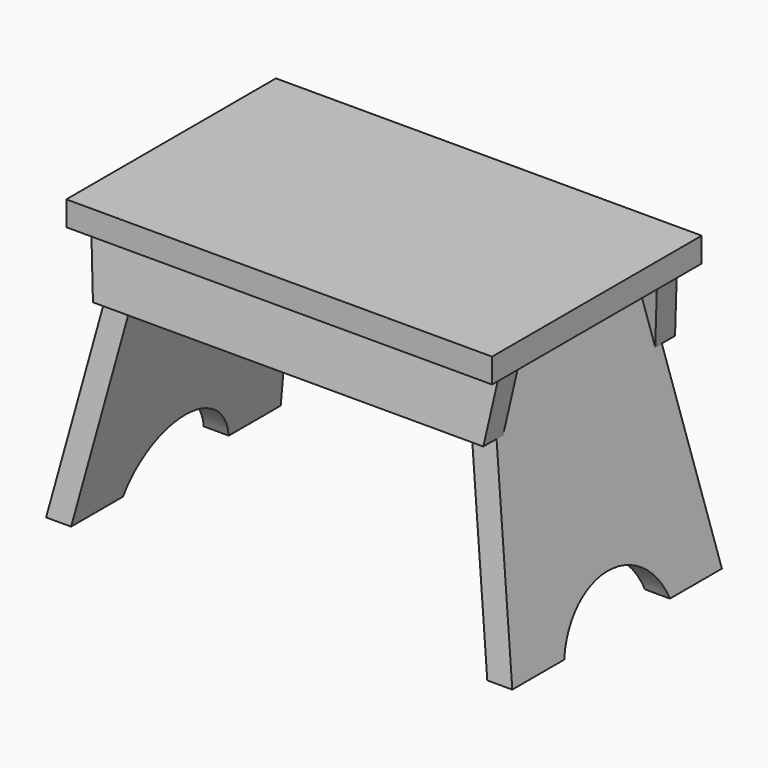
from build123d import *

# Parameters (mm, degrees)
F1_DEPTH      = 101.6
F2_DEPTH      = 101.6
F2_DEPTH_BACK = 101.6
F4_DEPTH      = 180.7780199658
F4_DEPTH_BACK = 180.7780199658
F6_DEPTH      = 165.1
F6_DEPTH_BACK = 165.1
F7_DEPTH      = 101.601
F7_DEPTH_BACK = 101.601


with BuildPart() as f1:
    # F0 (on Front) → F1 (new body, symmetric)
    with BuildSketch(Plane.XZ):
        Polygon((165.1, 9.525), (-165.1, 9.525), (-165.1, -9.525), (-158.4321111441, -9.525), (-141.6839671327, -9.525), (-122.2846235293, -9.525), (122.2846235293, -9.525), (141.6839671327, -9.525), (158.4321111441, -9.525), (165.1, -9.525), align=None)
    extrude(amount=F1_DEPTH, both=True)


with BuildPart() as f2:
    # F0 (on Front) → F2 (new body, two sides)
    with BuildSketch(Plane.XZ) as f2_sk:
        Polygon((-131.9627740119, -59.8306178921), (-151.3621176153, -59.8306178921), (-180.7770199658, -212.725), (-161.3776763624, -212.725), align=None)
        Polygon((-122.2846235293, -9.525), (-141.6839671327, -9.525), (-151.3621176153, -59.8306178921), (-131.9627740119, -59.8306178921), align=None)
        Polygon((-122.2846235293, -9.525), (-141.6839671327, -9.525), (-151.3621176153, -59.8306178921), (-131.9627740119, -59.8306178921), align=None)
    extrude(amount=F2_DEPTH)
    extrude(f2_sk.sketch, amount=-F2_DEPTH_BACK)


with BuildPart() as f2b:
    # F0 (on Front) → F2, piece 2 (new body, two sides)
    with BuildSketch(Plane.XZ) as f2_2_sk:
        Polygon((180.7770199658, -212.725), (151.3621176153, -59.8306178921), (131.9627740119, -59.8306178921), (161.3776763624, -212.725), align=None)
        Polygon((151.3621176153, -59.8306178921), (141.6839671327, -9.525), (122.2846235293, -9.525), (131.9627740119, -59.8306178921), align=None)
    extrude(amount=F2_DEPTH)
    extrude(f2_2_sk.sketch, amount=-F2_DEPTH_BACK)


with BuildPart() as f4_tool:
    # F3 (on Right) → F4 (new body, two sides)
    with BuildSketch(Plane.YZ) as f4_sk:
        Polygon((-101.6, -212.725), (-73.0421023885, -9.525), (-101.6000000004, -9.525), align=None)
        with BuildLine():
            Line((-51.2400512201, -212.725), (51.2400512201, -212.725))
            ThreePointArc((51.2400512201, -212.725), (0, -175.2418500158), (-51.2400512201, -212.725))
        make_face()
        Polygon((101.6, -212.725), (101.6, -9.525), (73.0421023885, -9.525), align=None)
    extrude(amount=-F4_DEPTH)
    extrude(f4_sk.sketch, amount=F4_DEPTH_BACK)


with BuildPart() as f2_1:
    add(f2.part)

    # F4: cut by f4_tool
    add(f4_tool.part, mode=Mode.SUBTRACT)


with BuildPart() as f2b_1:
    add(f2b.part)

    # F4: cut by f4_tool
    add(f4_tool.part, mode=Mode.SUBTRACT)


with BuildPart() as f6:
    # F5 (on Right) → F6 (new body, two sides)
    with BuildSketch(Plane.YZ) as f6_sk:
        Polygon((-80.1120959173, -59.8306178921), (-73.0421023885, -9.525), (-85.8669125597, -9.525), (-92.9369060884, -59.8306178921), align=None)
        Polygon((-66.6296973032, -9.525), (-73.0421023885, -9.525), (-80.1120959173, -59.8306178921), (-73.6996908319, -59.8306178921), align=None)
    extrude(amount=-F6_DEPTH)
    extrude(f6_sk.sketch, amount=F6_DEPTH_BACK)


with BuildPart() as f6b:
    # F5 (on Right) → F6, piece 2 (new body, two sides)
    with BuildSketch(Plane.YZ) as f6_2_sk:
        Polygon((73.0421023885, -9.525), (66.6296973032, -9.525), (73.6996908319, -59.8306178921), (80.1120959173, -59.8306178921), align=None)
        Polygon((85.8669125597, -9.525), (73.0421023885, -9.525), (80.1120959173, -59.8306178921), (92.9369060883, -59.8306178921), align=None)
    extrude(amount=-F6_DEPTH)
    extrude(f6_2_sk.sketch, amount=F6_DEPTH_BACK)


with BuildPart() as f7_tool:
    # F0 (on Front) → F7 (new body, two sides)
    with BuildSketch(Plane.XZ) as f7_sk:
        Polygon((-158.4321111441, -9.525), (-165.1, -9.525), (-165.1, -59.8306178921), (-151.3621176153, -59.8306178921), align=None)
        Polygon((165.1, -59.8306178921), (165.1, -9.525), (158.4321111441, -9.525), (151.3621176153, -59.8306178921), align=None)
    extrude(amount=-F7_DEPTH)
    extrude(f7_sk.sketch, amount=F7_DEPTH_BACK)


with BuildPart() as f6_1:
    add(f6.part)

    # F7: cut by f7_tool
    add(f7_tool.part, mode=Mode.SUBTRACT)

    # F9: cut F2
    add(f2_1.part, mode=Mode.SUBTRACT)

    # F10: cut F2b
    add(f2b_1.part, mode=Mode.SUBTRACT)


with BuildPart() as f6b_1:
    add(f6b.part)

    # F7: cut by f7_tool
    add(f7_tool.part, mode=Mode.SUBTRACT)

    # F8: cut F2
    add(f2_1.part, mode=Mode.SUBTRACT)

    # F11: cut F2b
    add(f2b_1.part, mode=Mode.SUBTRACT)


solid = Compound([f1.part, f2_1.part, f2b_1.part, f6_1.part, f6b_1.part])
